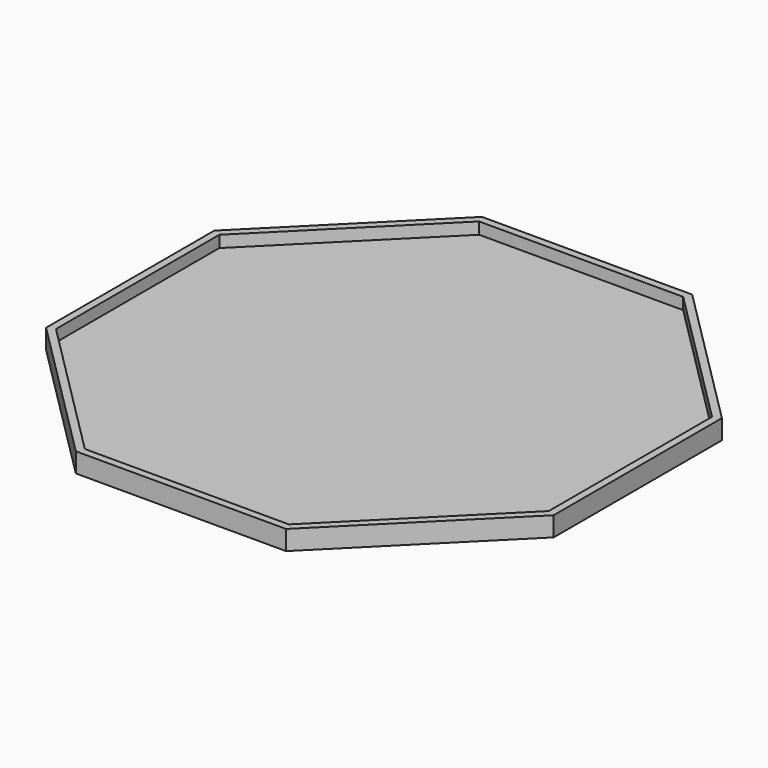
from build123d import *

# Parameters (mm, degrees)
F1_DEPTH = 2
F2_DEPTH = 5


with BuildPart() as f1:
    # F0 (on Top) → F1 (new body)
    with BuildSketch(Plane.XY):
        Polygon((63.10069, 26.13691), (26.136925, 63.099984), (-26.13674, 63.099984), (-63.099814, 26.13691), (-63.099814, -26.136585), (-26.13674, -63.099659), (26.136925, -63.099659), (63.10069, -26.136585), align=None)
    extrude(amount=F1_DEPTH)

    # F0 (on Top) → F2 (join)
    with BuildSketch(Plane.XY):
        Polygon((65.000013, 26.923951), (26.923626, 64.999987), (-26.924131, 64.999987), (-64.999987, 26.923951), (-64.999987, -26.923636), (-26.924131, -65.000013), (26.923626, -65.000013), (65.000013, -26.923636), align=None)
        Polygon((-26.13674, 63.099984), (26.136925, 63.099984), (63.10069, 26.13691), (63.10069, -26.136585), (26.136925, -63.099659), (-26.13674, -63.099659), (-63.099814, -26.136585), (-63.099814, 26.13691), align=None, mode=Mode.SUBTRACT)
    extrude(amount=F2_DEPTH)


solid = f1.part
